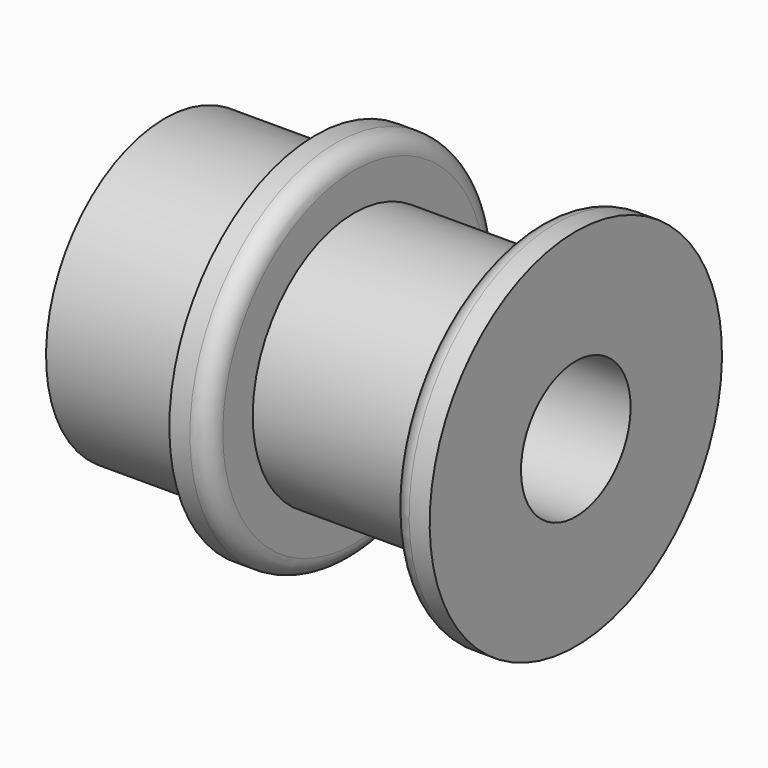
from build123d import *

# Parameters (mm, degrees)
F2_R = 0.8


with BuildPart() as f1:
    # F0 (on Front) → F1 (revolve)
    with BuildSketch(Plane.XZ):
        Polygon((0, 6.5), (0, 3), (18, 3), (18, 8), (16.3, 8), (16.3, 5.56), (8.3, 5.56), (8.3, 8), (6.6, 8), (6.6, 6.5), align=None)
    revolve(axis=Axis((9, 0, 0), (1, 0, 0)))

    # F2
    f2_edges = [f1.edges().sort_by_distance(p)[0] for p in [
        (8.3, 0, -8),
        (16.3, 0, -8),
    ]]
    fillet(f2_edges, radius=F2_R)


solid = f1.part
